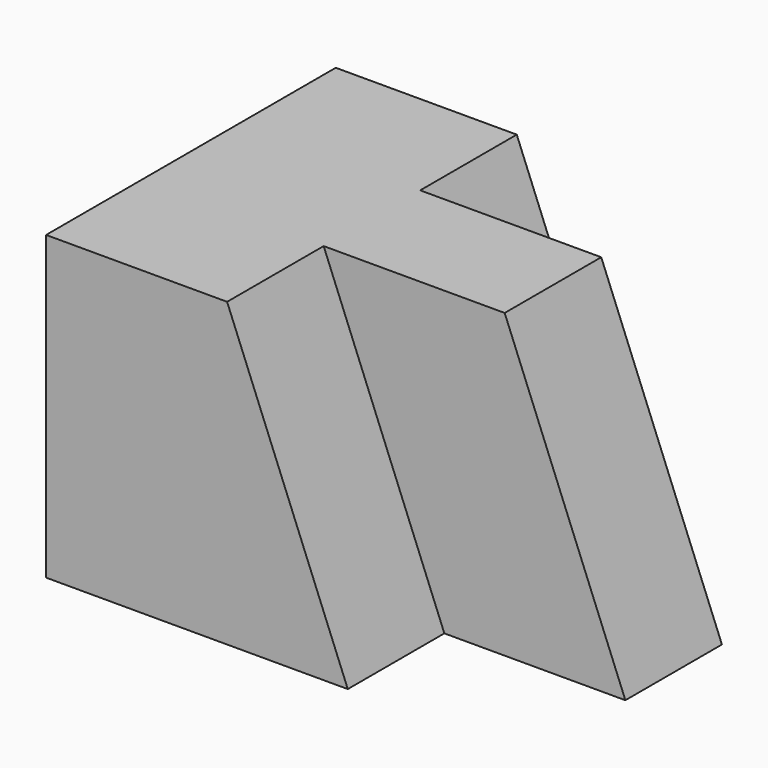
from build123d import *

# Parameters (mm, degrees)
F1_DEPTH  = 50.8
F2_W      = 12.7
F2_H      = 31.75
F3_DEPTH  = 19.05
F5_DEPTH  = 12.7
F6_W      = 12.7
F6_H      = 31.75
F7_DEPTH  = 19.05
F9_DEPTH  = 12.7
F11_DEPTH = 25.4


with BuildPart() as f1:
    # F0 (on Right) → F1 (new body)
    with BuildSketch(Plane.YZ):
        Polygon((19.05, 0), (0, 0), (-19.05, 0), (-19.05, -31.75), (19.05, -31.75), align=None)
    extrude(amount=F1_DEPTH)

    # F2 (on face) → F3 (cut)
    with BuildSketch(Plane.YZ.offset(50.8)):
        with Locations((-12.7, -15.875)):
            Rectangle(F2_W, F2_H)
    extrude(amount=-F3_DEPTH, mode=Mode.SUBTRACT)

    # F4 (on face) → F5 (cut)
    with BuildSketch(Plane.XZ.offset(19.05)):
        Polygon((31.75, -31.75), (31.75, 0), (19.05, 0), align=None)
    extrude(amount=-F5_DEPTH, mode=Mode.SUBTRACT)

    # F6 (on face) → F7 (cut)
    with BuildSketch(Plane.YZ.offset(50.8)):
        with Locations((12.7, -15.875)):
            Rectangle(F6_W, F6_H)
    extrude(amount=-F7_DEPTH, mode=Mode.SUBTRACT)

    # F8 (on face) → F9 (cut)
    with BuildSketch(Plane(origin=(0, 19.05, 0), x_dir=(-1, 0, 0), z_dir=(0, 1, 0))):
        Polygon((-19.05, 0), (-31.75, 0), (-31.75, -31.75), align=None)
    extrude(amount=-F9_DEPTH, mode=Mode.SUBTRACT)

    # F10 (on face) → F11 (cut)
    with BuildSketch(Plane.XZ.offset(6.35)):
        Polygon((38.1, 0), (50.8, -31.75), (50.8, 0), align=None)
    extrude(amount=-F11_DEPTH, mode=Mode.SUBTRACT)


solid = f1.part
